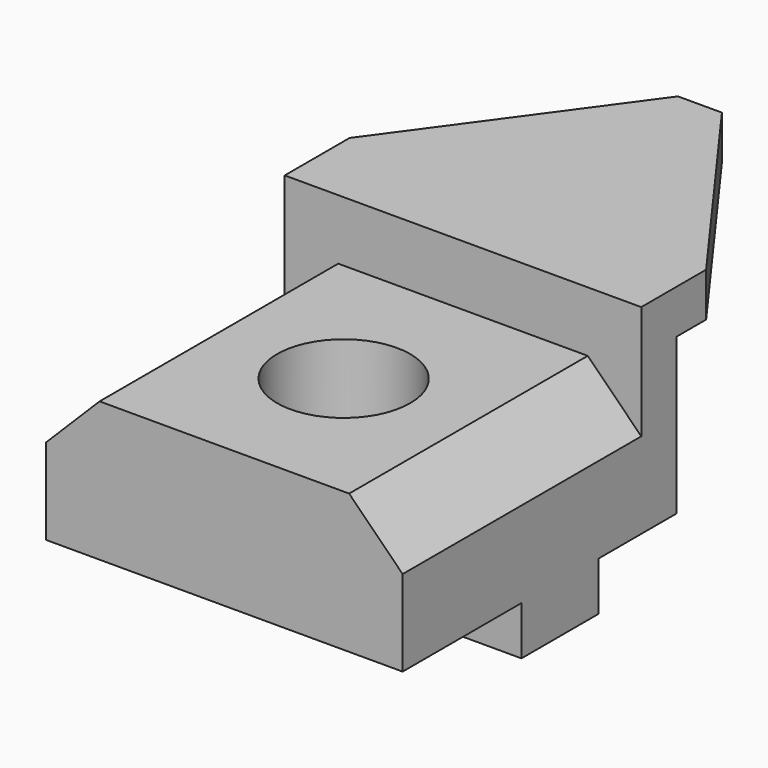
from build123d import *

# Parameters (mm, degrees)
F1_DEPTH  = 9.398
F2_W      = 76.2
F2_H      = 33.274
F3_DEPTH  = 9.398
F4_W      = 76.2
F4_H      = 29.7886691538
F5_DEPTH  = 63.754
F6_SIZE   = 11.43
F7_W      = 76.2
F7_H      = 20.574
F8_DEPTH  = 10.414
F9_R      = 14.224
F10_DEPTH = 58.928


with BuildPart() as f1:
    # F0 (on Top) → F1 (new body)
    with BuildSketch(Plane.XY):
        Polygon((-69.8201261675, 38.4550108689), (-69.8201261675, 21.1263484053), (6.3798738325, 21.1263484053), (6.3798738325, 38.4550108689), (-27.0211261675, 84.4290108689), (-36.4191261675, 84.4290108689), align=None)
    extrude(amount=F1_DEPTH)

    # F2 (on face) → F3 (join)
    with BuildSketch(Plane.XZ.offset(-21.1263484053)):
        with Locations((-31.7201261675, -16.637)):
            Rectangle(F2_W, F2_H)
    extrude(amount=-F3_DEPTH)

    # F4 (on face) → F5 (join)
    with BuildSketch(Plane.XZ.offset(-21.1263484053)):
        with Locations((-31.7201261675, -18.3796654231)):
            Rectangle(F4_W, F4_H)
    extrude(amount=F5_DEPTH)

    # F6
    f6_edges = [f1.edges().sort_by_distance(p)[0] for p in [
        (6.379874, -10.750652, -3.485331),
        (-69.820126, -10.750652, -3.485331),
    ]]
    chamfer(f6_edges, length=F6_SIZE)

    # F7 (on face) → F8 (join)
    with BuildSketch(Plane(origin=(0, 0, -33.274), x_dir=(1, 0, 0), z_dir=(0, 0, -1))):
        with Locations((-31.7201261675, 0.5906515947)):
            Rectangle(F7_W, F7_H)
    extrude(amount=F8_DEPTH)

    # F9 (on face) → F10 (cut)
    with BuildSketch(Plane.XY.offset(-3.4853308462)):
        with Locations((-31.7201261675, -10.7506515947)):
            Circle(F9_R)
    extrude(amount=-F10_DEPTH, mode=Mode.SUBTRACT)


solid = f1.part
